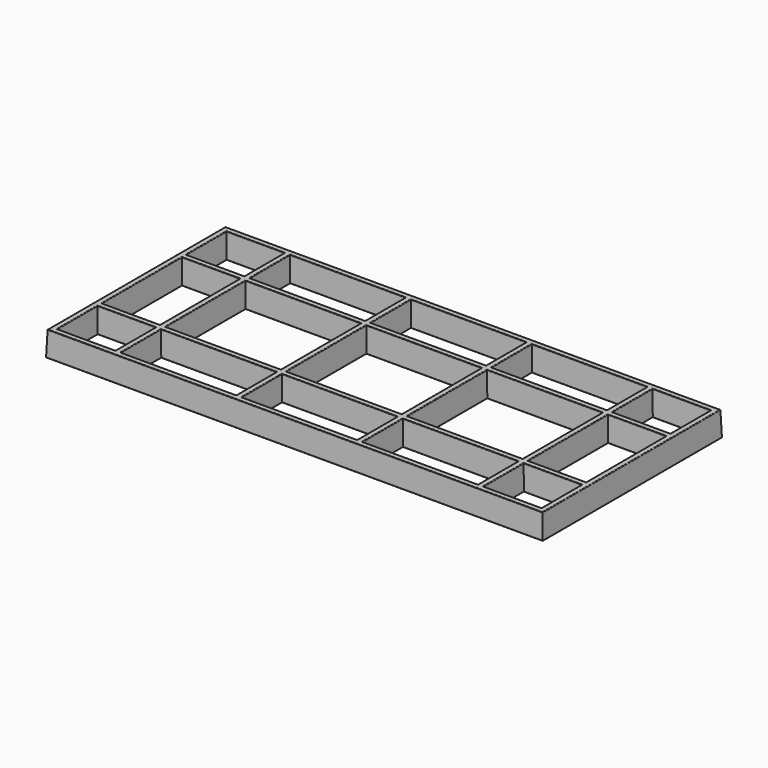
from build123d import *

# Parameters (mm, degrees)
F0_W     = 254
F0_H     = 114.3
F0_W_2   = 3.175
F0_H_2   = 3.175
F0_W_3   = 29.36875
F0_H_3   = 25.4
F0_H_4   = 23.8125
F0_W_4   = 27.78125
F1_DEPTH = 6.35
F1_TAPER = 2
F2_W     = 254
F2_H     = 114.3
F2_W_2   = 29.36875
F2_H_2   = 25.4
F2_W_3   = 58.7375
F2_H_3   = 50.8
F3_DEPTH = 6.35
F3_TAPER = -2
F4_R     = 0.28


with BuildPart() as f1:
    # F0 (on Top) → F1 (new body)
    with BuildSketch(Plane.XY):
        Rectangle(F0_W, F0_H)
        Polygon((94.45625, 53.975), (123.825, 53.975), (123.825, 28.575), (123.825, 25.4), (123.825, 1.5875), (123.825, -1.5875), (123.825, -25.4), (123.825, -28.575), (123.825, -53.975), (94.45625, -53.975), (91.28125, -53.975), (63.5, -53.975), (60.325, -53.975), (32.54375, -53.975), (29.36875, -53.975), (1.5875, -53.975), (-1.5875, -53.975), (-29.36875, -53.975), (-32.54375, -53.975), (-60.325, -53.975), (-63.5, -53.975), (-91.28125, -53.975), (-94.45625, -53.975), (-123.825, -53.975), (-123.825, -28.575), (-123.825, -25.4), (-123.825, -1.5875), (-123.825, 1.5875), (-123.825, 25.4), (-123.825, 28.575), (-123.825, 53.975), (-94.45625, 53.975), (-91.28125, 53.975), (-63.5, 53.975), (-60.325, 53.975), (-32.54375, 53.975), (-29.36875, 53.975), (-1.5875, 53.975), (1.5875, 53.975), (29.36875, 53.975), (32.54375, 53.975), (60.325, 53.975), (63.5, 53.975), (91.28125, 53.975), align=None, mode=Mode.SUBTRACT)
        with Locations((61.9125, 26.9875)):
            Rectangle(F0_W_2, F0_H_2)
        with Locations((0, 26.9875)):
            Rectangle(F0_W_2, F0_H_2)
        with Locations((-61.9125, 26.9875)):
            Rectangle(F0_W_2, F0_H_2)
        with Locations((92.86875, 0)):
            Rectangle(F0_W_2, F0_H_2)
        with Locations((30.95625, 0)):
            Rectangle(F0_W_2, F0_H_2)
        with Locations((-92.86875, 0)):
            Rectangle(F0_W_2, F0_H_2)
        with Locations((-30.95625, 0)):
            Rectangle(F0_W_2, F0_H_2)
        with Locations((61.9125, -26.9875)):
            Rectangle(F0_W_2, F0_H_2)
        with Locations((0, -26.9875)):
            Rectangle(F0_W_2, F0_H_2)
        with Locations((-61.9125, -26.9875)):
            Rectangle(F0_W_2, F0_H_2)
        with Locations((-92.86875, 26.9875)):
            Rectangle(F0_W_2, F0_H_2)
        with Locations((-109.140625, 26.9875)):
            Rectangle(F0_W_3, F0_H_2)
        with Locations((-92.86875, 41.275)):
            Rectangle(F0_W_2, F0_H_3)
        with Locations((-92.86875, 13.49375)):
            Rectangle(F0_W_2, F0_H_4)
        with Locations((-77.390625, 26.9875)):
            Rectangle(F0_W_4, F0_H_2)
        with Locations((-92.86875, -13.49375)):
            Rectangle(F0_W_2, F0_H_4)
        with Locations((-92.86875, -26.9875)):
            Rectangle(F0_W_2, F0_H_2)
        with Locations((-92.86875, -41.275)):
            Rectangle(F0_W_2, F0_H_3)
        with Locations((-109.140625, -26.9875)):
            Rectangle(F0_W_3, F0_H_2)
        with Locations((-77.390625, -26.9875)):
            Rectangle(F0_W_4, F0_H_2)
        with Locations((-46.434375, 26.9875)):
            Rectangle(F0_W_4, F0_H_2)
        with Locations((-30.95625, 41.275)):
            Rectangle(F0_W_2, F0_H_3)
        with Locations((-30.95625, 13.49375)):
            Rectangle(F0_W_2, F0_H_4)
        with Locations((-15.478125, 26.9875)):
            Rectangle(F0_W_4, F0_H_2)
        with Locations((-30.95625, -13.49375)):
            Rectangle(F0_W_2, F0_H_4)
        with Locations((-30.95625, -26.9875)):
            Rectangle(F0_W_2, F0_H_2)
        with Locations((-46.434375, -26.9875)):
            Rectangle(F0_W_4, F0_H_2)
        with Locations((-30.95625, -41.275)):
            Rectangle(F0_W_2, F0_H_3)
        with Locations((-15.478125, -26.9875)):
            Rectangle(F0_W_4, F0_H_2)
        with Locations((-30.95625, 26.9875)):
            Rectangle(F0_W_2, F0_H_2)
        with Locations((30.95625, -41.275)):
            Rectangle(F0_W_2, F0_H_3)
        with Locations((30.95625, -26.9875)):
            Rectangle(F0_W_2, F0_H_2)
        with Locations((30.95625, -13.49375)):
            Rectangle(F0_W_2, F0_H_4)
        with Locations((15.478125, -26.9875)):
            Rectangle(F0_W_4, F0_H_2)
        with Locations((46.434375, -26.9875)):
            Rectangle(F0_W_4, F0_H_2)
        with Locations((30.95625, 13.49375)):
            Rectangle(F0_W_2, F0_H_4)
        with Locations((30.95625, 41.275)):
            Rectangle(F0_W_2, F0_H_3)
        with Locations((30.95625, 26.9875)):
            Rectangle(F0_W_2, F0_H_2)
        with Locations((15.478125, 26.9875)):
            Rectangle(F0_W_4, F0_H_2)
        with Locations((46.434375, 26.9875)):
            Rectangle(F0_W_4, F0_H_2)
        with Locations((92.86875, 13.49375)):
            Rectangle(F0_W_2, F0_H_4)
        with Locations((92.86875, 26.9875)):
            Rectangle(F0_W_2, F0_H_2)
        with Locations((92.86875, 41.275)):
            Rectangle(F0_W_2, F0_H_3)
        with Locations((77.390625, 26.9875)):
            Rectangle(F0_W_4, F0_H_2)
        with Locations((109.140625, 26.9875)):
            Rectangle(F0_W_3, F0_H_2)
        with Locations((77.390625, -26.9875)):
            Rectangle(F0_W_4, F0_H_2)
        with Locations((92.86875, -13.49375)):
            Rectangle(F0_W_2, F0_H_4)
        with Locations((92.86875, -26.9875)):
            Rectangle(F0_W_2, F0_H_2)
        with Locations((92.86875, -41.275)):
            Rectangle(F0_W_2, F0_H_3)
        with Locations((109.140625, -26.9875)):
            Rectangle(F0_W_3, F0_H_2)
    extrude(amount=F1_DEPTH, taper=F1_TAPER)

    # F2 (on face) → F3 (join)
    with BuildSketch(Plane(origin=(0, 0, 0), x_dir=(1, 0, 0), z_dir=(0, 0, -1))):
        Rectangle(F2_W, F2_H)
        with Locations((-109.140625, -41.275)):
            Rectangle(F2_W_2, F2_H_2, mode=Mode.SUBTRACT)
        with Locations((-61.9125, -41.275)):
            Rectangle(F2_W_3, F2_H_2, mode=Mode.SUBTRACT)
        with Locations((0, -41.275)):
            Rectangle(F2_W_3, F2_H_2, mode=Mode.SUBTRACT)
        with Locations((61.9125, -41.275)):
            Rectangle(F2_W_3, F2_H_2, mode=Mode.SUBTRACT)
        with Locations((109.140625, -41.275)):
            Rectangle(F2_W_2, F2_H_2, mode=Mode.SUBTRACT)
        with Locations((-109.140625, 0)):
            Rectangle(F2_W_2, F2_H_3, mode=Mode.SUBTRACT)
        with Locations((-61.9125, 0)):
            Rectangle(F2_W_3, F2_H_3, mode=Mode.SUBTRACT)
        with Locations((-109.140625, 41.275)):
            Rectangle(F2_W_2, F2_H_2, mode=Mode.SUBTRACT)
        with Locations((-61.9125, 41.275)):
            Rectangle(F2_W_3, F2_H_2, mode=Mode.SUBTRACT)
        Rectangle(F2_W_3, F2_H_3, mode=Mode.SUBTRACT)
        with Locations((61.9125, 0)):
            Rectangle(F2_W_3, F2_H_3, mode=Mode.SUBTRACT)
        with Locations((109.140625, 0)):
            Rectangle(F2_W_2, F2_H_3, mode=Mode.SUBTRACT)
        with Locations((0, 41.275)):
            Rectangle(F2_W_3, F2_H_2, mode=Mode.SUBTRACT)
        with Locations((61.9125, 41.275)):
            Rectangle(F2_W_3, F2_H_2, mode=Mode.SUBTRACT)
        with Locations((109.140625, 41.275)):
            Rectangle(F2_W_2, F2_H_2, mode=Mode.SUBTRACT)
    extrude(amount=F3_DEPTH, taper=F3_TAPER)

    # F4
    f4_edges = [f1.edges().sort_by_distance(p)[0] for p in [
        (126.778253, 0, 6.35),
        (0, -56.928253, 6.35),
        (0, 56.928253, 6.35),
        (-126.778253, 0, 6.35),
        (61.9125, -28.353253, 6.35),
        (91.502997, -41.275, 6.35),
        (61.9125, -54.196747, 6.35),
        (32.322003, -41.275, 6.35),
        (29.590497, -41.275, 6.35),
        (0, -54.196747, 6.35),
        (-29.590497, -41.275, 6.35),
        (0, -28.353253, 6.35),
        (-29.590497, 0, 6.35),
        (0, 25.621747, 6.35),
        (29.590497, 0, 6.35),
        (0, -25.621747, 6.35),
        (-61.9125, -28.353253, 6.35),
        (-32.322003, -41.275, 6.35),
        (-61.9125, -54.196747, 6.35),
        (-91.502997, -41.275, 6.35),
        (-109.140625, -54.196747, 6.35),
        (-124.046747, -41.275, 6.35),
        (-109.140625, -28.353253, 6.35),
        (-94.234503, -41.275, 6.35),
        (-61.9125, 25.621747, 6.35),
        (-32.322003, 0, 6.35),
        (-61.9125, -25.621747, 6.35),
        (-91.502997, 0, 6.35),
        (-124.046747, 0, 6.35),
        (-109.140625, 25.621747, 6.35),
        (-94.234503, 0, 6.35),
        (-109.140625, -25.621747, 6.35),
        (-109.140625, 28.353253, 6.35),
        (-124.046747, 41.275, 6.35),
        (-109.140625, 54.196747, 6.35),
        (-94.234503, 41.275, 6.35),
        (124.046747, -41.275, 6.35),
        (109.140625, -54.196747, 6.35),
        (94.234503, -41.275, 6.35),
        (109.140625, -28.353253, 6.35),
        (109.140625, 25.621747, 6.35),
        (124.046747, 0, 6.35),
        (109.140625, -25.621747, 6.35),
        (94.234503, 0, 6.35),
        (91.502997, 0, 6.35),
        (61.9125, -25.621747, 6.35),
        (32.322003, 0, 6.35),
        (61.9125, 25.621747, 6.35),
        (94.234503, 41.275, 6.35),
        (109.140625, 54.196747, 6.35),
        (124.046747, 41.275, 6.35),
        (109.140625, 28.353253, 6.35),
        (61.9125, 54.196747, 6.35),
        (91.502997, 41.275, 6.35),
        (61.9125, 28.353253, 6.35),
        (32.322003, 41.275, 6.35),
        (-29.590497, 41.275, 6.35),
        (0, 54.196747, 6.35),
        (29.590497, 41.275, 6.35),
        (0, 28.353253, 6.35),
        (-32.322003, 41.275, 6.35),
        (-61.9125, 28.353253, 6.35),
        (-91.502997, 41.275, 6.35),
        (-61.9125, 54.196747, 6.35),
        (-127.221747, 0, -6.35),
        (0, -57.371747, -6.35),
        (0, 57.371747, -6.35),
        (127.221747, 0, -6.35),
        (-61.9125, -28.796747, -6.35),
        (-91.059503, -41.275, -6.35),
        (-61.9125, -53.753253, -6.35),
        (-32.765497, -41.275, -6.35),
        (-29.147003, -41.275, -6.35),
        (0, -53.753253, -6.35),
        (29.147003, -41.275, -6.35),
        (0, -28.796747, -6.35),
        (32.765497, -41.275, -6.35),
        (61.9125, -53.753253, -6.35),
        (91.059503, -41.275, -6.35),
        (61.9125, -28.796747, -6.35),
        (94.677997, -41.275, -6.35),
        (109.140625, -53.753253, -6.35),
        (123.603253, -41.275, -6.35),
        (109.140625, -28.796747, -6.35),
        (91.059503, 0, -6.35),
        (61.9125, 25.178253, -6.35),
        (32.765497, 0, -6.35),
        (61.9125, -25.178253, -6.35),
        (94.677997, 0, -6.35),
        (109.140625, -25.178253, -6.35),
        (123.603253, 0, -6.35),
        (109.140625, 25.178253, -6.35),
        (94.677997, 41.275, -6.35),
        (109.140625, 28.796747, -6.35),
        (123.603253, 41.275, -6.35),
        (109.140625, 53.753253, -6.35),
        (-123.603253, -41.275, -6.35),
        (-109.140625, -53.753253, -6.35),
        (-94.677997, -41.275, -6.35),
        (-109.140625, -28.796747, -6.35),
        (-123.603253, 0, -6.35),
        (-109.140625, -25.178253, -6.35),
        (-94.677997, 0, -6.35),
        (-109.140625, 25.178253, -6.35),
        (-32.765497, 0, -6.35),
        (-61.9125, 25.178253, -6.35),
        (-91.059503, 0, -6.35),
        (-61.9125, -25.178253, -6.35),
        (-123.603253, 41.275, -6.35),
        (-109.140625, 28.796747, -6.35),
        (-94.677997, 41.275, -6.35),
        (-109.140625, 53.753253, -6.35),
        (-61.9125, 53.753253, -6.35),
        (-91.059503, 41.275, -6.35),
        (-61.9125, 28.796747, -6.35),
        (-32.765497, 41.275, -6.35),
        (0, -25.178253, -6.35),
        (29.147003, 0, -6.35),
        (0, 25.178253, -6.35),
        (-29.147003, 0, -6.35),
        (-29.147003, 41.275, -6.35),
        (0, 28.796747, -6.35),
        (29.147003, 41.275, -6.35),
        (0, 53.753253, -6.35),
        (32.765497, 41.275, -6.35),
        (61.9125, 28.796747, -6.35),
        (91.059503, 41.275, -6.35),
        (61.9125, 53.753253, -6.35),
    ]]
    fillet(f4_edges, radius=F4_R)


solid = f1.part
